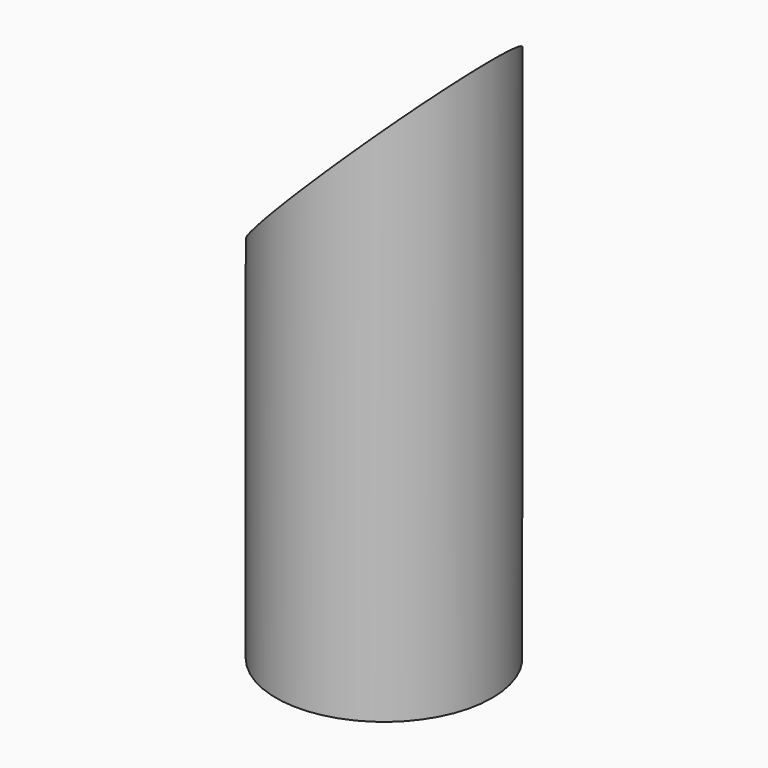
from build123d import *

# Parameters (mm, degrees)
F0_R     = 9.53
F0_R_2   = 8.31
F1_DEPTH = 50
F3_DEPTH = 12.5


with BuildPart() as f1:
    # F0 (on Top) → F1 (new body)
    with BuildSketch(Plane.XY):
        Circle(F0_R)
        Circle(F0_R_2, mode=Mode.SUBTRACT)
    extrude(amount=F1_DEPTH)

    # F2 (on Front) → F3 (cut, symmetric)
    with BuildSketch(Plane.XZ):
        Polygon((-10, 30), (10, 50), (-10, 50), align=None)
    extrude(amount=F3_DEPTH, both=True, mode=Mode.SUBTRACT)


solid = f1.part
